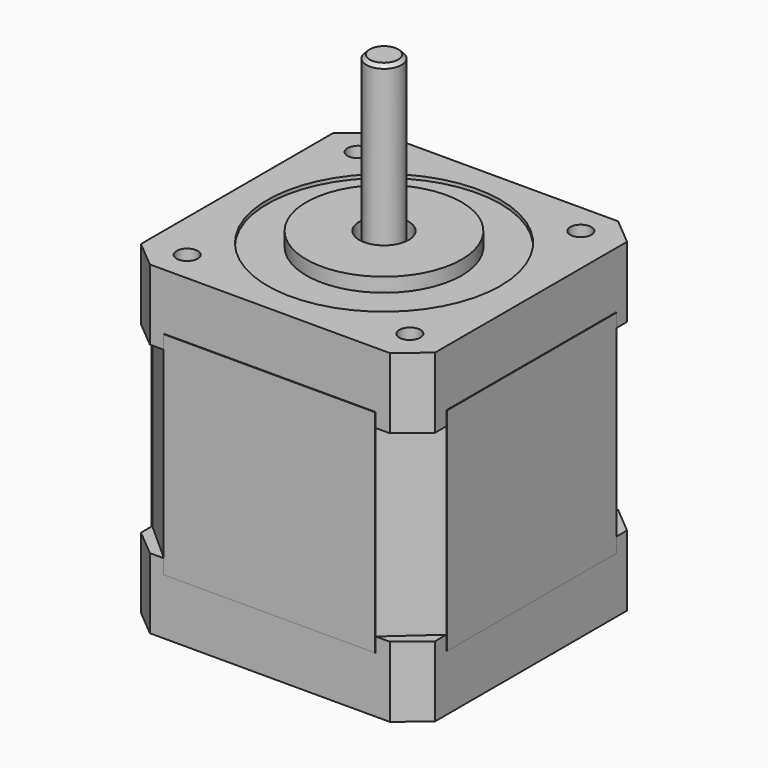
from build123d import *

# Parameters (mm, degrees)
PAD_DEPTH             = 10
POCKET_DEPTH          = 2
PAD001_DEPTH          = 28
PAD002_DEPTH          = 10
SKETCH004_R           = 16.5
POCKET001_DEPTH       = 0.5
SKETCH005_R           = 11
PAD003_DEPTH          = 2
SKETCH006_R           = 3.5
POCKET002_DEPTH       = 3
SKETCH007_R           = 1.5
POCKET003_DEPTH       = 5
POLARPATTERN_COUNT    = 4
SKETCH008_R           = 2.8
POCKET004_DEPTH       = 2
POLARPATTERN001_COUNT = 4
SKETCH009_R           = 3.25
POCKET005_DEPTH       = 3
SKETCH010_R           = 2.5
PAD004_DEPTH          = 1.3
CHAMFER_SIZE          = 0.5
SKETCH011_R           = 2.5
PAD005_DEPTH          = 25
CHAMFER001_SIZE       = 0.5
SKETCH012_W           = 30
SKETCH012_H           = 30
PAD006_DEPTH          = 0.1
POLARPATTERN002_COUNT = 2
SKETCH013_W           = 30
SKETCH013_H           = 30
PAD007_DEPTH          = 0.1
POLARPATTERN003_COUNT = 2


with BuildPart() as part:
    # Sketch → Pad (new body)
    with BuildSketch(Plane.XY):
        Polygon((-17, 20.213938), (17, 20.213938), (20.830222, 17), (20.830222, -17), (17, -20.213938), (-17, -20.213938), (-20.830222, -17), (-20.830222, 17), align=None)
    extrude(amount=PAD_DEPTH)

    # Sketch001 (on Face10 of Pad) → Pocket (cut)
    with BuildSketch(Plane.XY.offset(10)):
        Polygon((-20.830222, 15), (-15, 20.213938), (15, 20.213938), (20.830222, 15), (20.830222, -15), (15, -20.213938), (-15, -20.213938), (-20.830222, -15), align=None)
    extrude(amount=-POCKET_DEPTH, mode=Mode.SUBTRACT)

    # Sketch002 (on Face6 of Pocket) → Pad001 (join)
    with BuildSketch(Plane.XY.offset(8)):
        Polygon((-20.830222, 15), (-15, 20.213938), (15, 20.213938), (20.830222, 15), (20.830222, -15), (15, -20.213938), (-15, -20.213938), (-20.830222, -15), align=None)
    extrude(amount=PAD001_DEPTH)

    # Sketch003 (on Face12 of Pad001) → Pad002 (join)
    with BuildSketch(Plane.XY.offset(36)):
        Polygon((-20.830222, 17), (-17, 20.213938), (17, 20.213938), (20.830222, 17), (20.830222, -17), (17, -20.213938), (-17, -20.213938), (-20.830222, -17), align=None)
    extrude(amount=PAD002_DEPTH)

    # Sketch004 (on Face17 of Pad002) → Pocket001 (cut)
    with BuildSketch(Plane.XY.offset(46)):
        Circle(SKETCH004_R)
    extrude(amount=-POCKET001_DEPTH, mode=Mode.SUBTRACT)

    # Sketch005 (on Face28 of Pocket001) → Pad003 (join)
    with BuildSketch(Plane.XY.offset(45.5)):
        Circle(SKETCH005_R)
    extrude(amount=PAD003_DEPTH)

    # Sketch006 (on Face30 of Pad003) → Pocket002 (cut)
    with BuildSketch(Plane.XY.offset(47.5)):
        Circle(SKETCH006_R)
    extrude(amount=-POCKET002_DEPTH, mode=Mode.SUBTRACT)

    # Sketch007 (on Face14 of Pocket002) → Pocket003 (cut)
    with BuildSketch(Plane.XY.offset(46)):
        with Locations((-15.830222, 15.213938)):
            Circle(SKETCH007_R)
    pocket003 = extrude(amount=-POCKET003_DEPTH, mode=Mode.SUBTRACT)

    # PolarPattern: Pocket003 ×4 about axis
    polarpattern_axis = Axis((0, 0, 46), (0, 0, 1))
    for i in range(1, POLARPATTERN_COUNT):
        add(pocket003.rotate(polarpattern_axis, i * 360 / POLARPATTERN_COUNT), mode=Mode.SUBTRACT)

    # Sketch008 (on Face1 of PolarPattern) → Pocket004 (cut)
    with BuildSketch(Plane(origin=(0, 0, 0), x_dir=(1, 0, 0), z_dir=(0, 0, -1))):
        with Locations((-15.830222, 15.213938)):
            Circle(SKETCH008_R)
    pocket004 = extrude(amount=-POCKET004_DEPTH, mode=Mode.SUBTRACT)

    # PolarPattern001: Pocket004 ×4 about axis
    polarpattern001_axis = Axis((0, 0, 0), (0, 0, -1))
    for i in range(1, POLARPATTERN001_COUNT):
        add(pocket004.rotate(polarpattern001_axis, i * 360 / POLARPATTERN001_COUNT), mode=Mode.SUBTRACT)

    # Sketch009 (on Face1 of PolarPattern001) → Pocket005 (cut)
    with BuildSketch(Plane(origin=(0, 0, 0), x_dir=(1, 0, 0), z_dir=(0, 0, -1))):
        Circle(SKETCH009_R)
    extrude(amount=-POCKET005_DEPTH, mode=Mode.SUBTRACT)

    # Sketch010 (on Face33 of Pocket005) → Pad004 (join)
    with BuildSketch(Plane(origin=(0, 0, 3), x_dir=(1, 0, 0), z_dir=(0, 0, -1))):
        Circle(SKETCH010_R)
    extrude(amount=PAD004_DEPTH)

    # Chamfer
    chamfer_edges = [part.edges().sort_by_distance(p)[0] for p in [
        (-2.5, 0, 1.7),
    ]]
    chamfer(chamfer_edges, length=CHAMFER_SIZE)

    # Sketch011 (on Face53 of Chamfer) → Pad005 (join)
    with BuildSketch(Plane.XY.offset(44.5)):
        Circle(SKETCH011_R)
    extrude(amount=PAD005_DEPTH)

    # Chamfer001
    chamfer001_edges = [part.edges().sort_by_distance(p)[0] for p in [
        (-2.5, 0, 69.5),
    ]]
    chamfer(chamfer001_edges, length=CHAMFER001_SIZE)

    # Sketch012 (on Face16 of Chamfer001) → Pad006 (join)
    with BuildSketch(Plane.XZ.offset(20.213938)):
        with Locations((0, 23)):
            Rectangle(SKETCH012_W, SKETCH012_H)
    pad006 = extrude(amount=PAD006_DEPTH)

    # PolarPattern002: Pad006 ×2 about axis
    polarpattern002_axis = Axis((0, 0, 0), (0, 0, -1))
    for i in range(1, POLARPATTERN002_COUNT):
        add(pad006.rotate(polarpattern002_axis, i * 360 / POLARPATTERN002_COUNT))

    # Sketch013 (on Face17 of PolarPattern002) → Pad007 (join)
    with BuildSketch(Plane.YZ.offset(20.830222)):
        with Locations((0, 23)):
            Rectangle(SKETCH013_W, SKETCH013_H)
    pad007 = extrude(amount=PAD007_DEPTH)

    # PolarPattern003: Pad007 ×2 about axis
    polarpattern003_axis = Axis((0, 0, 0), (0, 0, 1))
    for i in range(1, POLARPATTERN003_COUNT):
        add(pad007.rotate(polarpattern003_axis, i * 360 / POLARPATTERN003_COUNT))


solid = part.part
